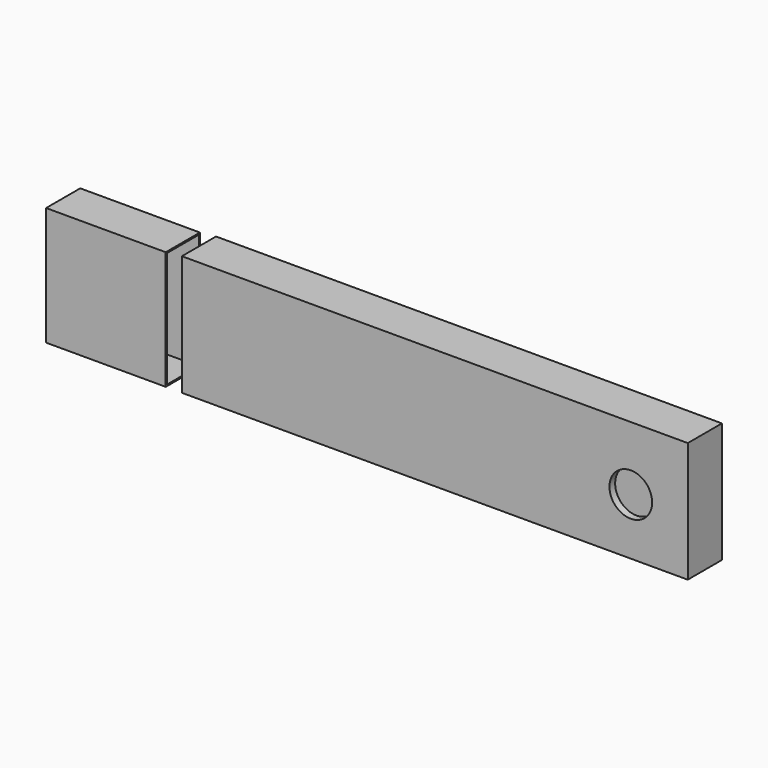
from build123d import *

# Parameters (mm, degrees)
F0_W     = 90.306844
F0_H     = 21.470224
F1_DEPTH = 7.62
F2_T     = -1.27
F5_D     = 7.62
F5_DEPTH = 2.54
F6_W     = 21.361325
F6_H     = 21.159645
F7_DEPTH = 7.62
F8_T     = -0.254


with BuildPart() as f1:
    # F0 (on Front) → F1 (new body)
    with BuildSketch(Plane.XZ):
        with Locations((14.59234, 10.735112)):
            Rectangle(F0_W, F0_H)
    extrude(amount=F1_DEPTH)

    # F2
    f2_openings = [f1.faces().sort_by_distance(p)[0] for p in [
        (-30.561082, -3.81, 10.735112),
    ]]
    offset(amount=F2_T, openings=f2_openings)

    # F5
    with Locations(Plane.XZ.offset(7.62)):
        with Locations((49.573194, 10.075469)):
            Hole(F5_D / 2, depth=F5_DEPTH)


with BuildPart() as f7:
    # F6 (on Front) → F7 (new body)
    with BuildSketch(Plane.XZ):
        with Locations((-44.122433, 10.579822)):
            Rectangle(F6_W, F6_H)
    extrude(amount=F7_DEPTH)

    # F8
    f8_openings = [f7.faces().sort_by_distance(p)[0] for p in [
        (-33.441771, -3.81, 10.579823),
    ]]
    offset(amount=F8_T, openings=f8_openings)


solid = Compound([f1.part, f7.part])
